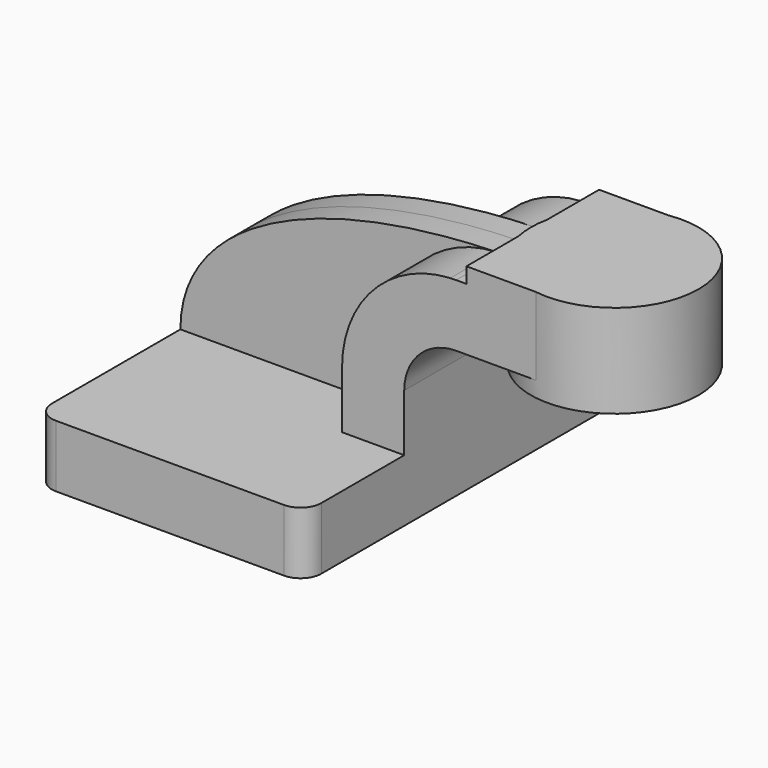
from build123d import *

# Parameters (mm, degrees)
F1_DEPTH = 63.5
F2_DEPTH = 7.9375
F3_R     = 6.35
F4_DEPTH = 25.4


with BuildPart() as f1:
    # F0 (on Front) → F1 (new body, symmetric)
    with BuildSketch(Plane.XZ):
        Polygon((22.225, 9.525), (-41.275, 9.525), (-41.275, -9.525), (41.275, -9.525), (41.275, 9.525), align=None)
    extrude(amount=F1_DEPTH, both=True)

    # F0 (on Front) → F2 (join, symmetric)
    with BuildSketch(Plane.XZ):
        with BuildLine():
            add(Edge.make_bspline(
                [(-41.275, 9.525), (-41.231316, 40.761163), (-0.825848, 60.309073), (55.42913, 61.882778)],
                knots=[0, 0, 0, 0, 110.382184, 110.382184, 110.382184, 110.382184], degree=3))
            Line((-41.275, 9.525), (22.225, 9.525))
            Line((22.225, 9.525), (22.225, 27.0002))
            ThreePointArc((22.225, 27.0002), (31.853192, 51.0798), (55.42913, 61.882778))
        make_face()
    extrude(amount=F2_DEPTH, both=True)

    # F3
    f3_edges = [f1.edges().sort_by_distance(p)[0] for p in [
        (41.275, -63.5, 0),
        (-41.275, -63.5, 0),
        (41.275, 63.5, 0),
        (-41.275, 63.5, 0),
    ]]
    fillet(f3_edges, radius=F3_R)

    # F0 (on Front) → F4 (join, symmetric)
    with BuildSketch(Plane.XZ):
        with BuildLine():
            Line((22.225, 27.0002), (22.225, 9.525))
            Line((22.225, 9.525), (41.275, 9.525))
            Line((41.275, 9.525), (41.275, 27.0002))
            ThreePointArc((41.275, 27.0002), (45.92468, 38.22552), (57.15, 42.8752))
            Line((57.15, 42.8752), (60.325, 42.8752))
            Line((60.325, 42.8752), (60.325, 61.9252))
            Line((60.325, 61.9252), (57.15, 61.9252))
            add(Edge.make_bspline(
                [(55.42913, 61.882778), (56.001123, 61.898779), (56.574755, 61.912922), (57.15, 61.9252)],
                knots=[110.382184, 110.382184, 110.382184, 110.382184, 111.504536, 111.504536, 111.504536, 111.504536], degree=3))
            ThreePointArc((55.42913, 61.882778), (31.853192, 51.0798), (22.225, 27.0002))
        make_face()
        Polygon((60.325, 66.675), (60.325, 61.9252), (60.325, 42.8752), (85.435174, 42.8752), (85.435174, 66.675), align=None)
    extrude(amount=F4_DEPTH, both=True)

    # F0 (on Front) → F5 (revolve)
    with BuildSketch(Plane.XZ):
        Polygon((85.435174, 66.675), (85.435174, 42.8752), (85.435174, 38.1), (111.125, 38.1), (111.125, 66.675), align=None)
    revolve(axis=Axis((85.435174, 0, 52.3875), (0, 0, 1)))


solid = f1.part
